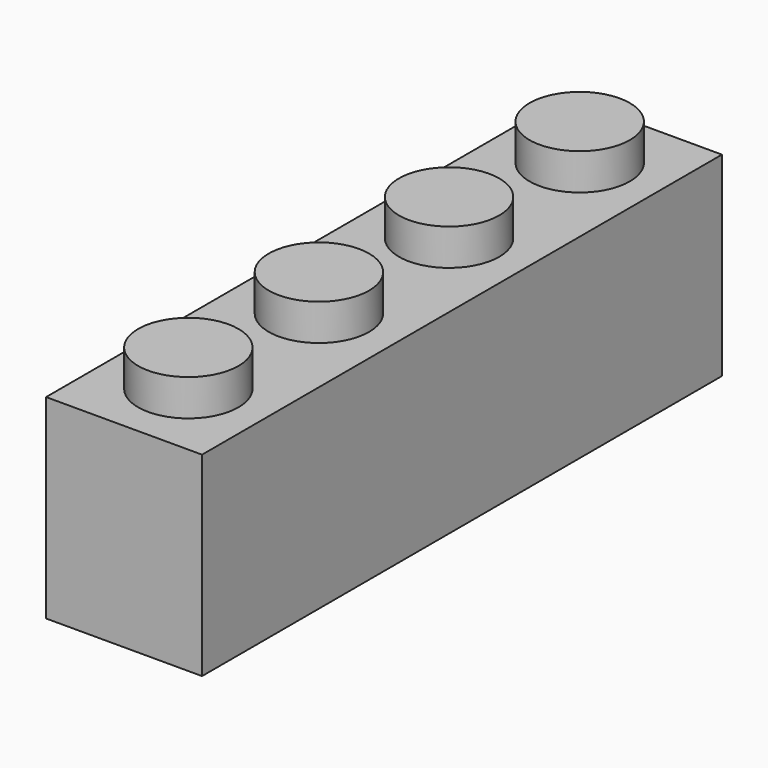
from build123d import *

# Parameters (mm, degrees)
F0_W     = 7.62
F0_H     = 31.75
F1_DEPTH = 4.7625
F2_R     = 2.4511
F3_DEPTH = 1.778
F4_W     = 4.572
F4_H     = 28.702
F4_R     = 1.4986
F5_DEPTH = 8.382


with BuildPart() as f1:
    # F0 (on Top) → F1 (new body, symmetric)
    with BuildSketch(Plane.XY):
        Rectangle(F0_W, F0_H)
    extrude(amount=F1_DEPTH, both=True)

    # F2 (on face) → F3 (join)
    with BuildSketch(Plane.XY.offset(4.7625)):
        with Locations((0, 11.9507)):
            Circle(F2_R)
        with Locations((0, 3.9751)):
            Circle(F2_R)
        with Locations((0, -3.9751)):
            Circle(F2_R)
        with Locations((0, -11.9507)):
            Circle(F2_R)
    extrude(amount=F3_DEPTH)

    # F4 (on face) → F5 (cut)
    with BuildSketch(Plane(origin=(0, 0, -4.7625), x_dir=(1, 0, 0), z_dir=(0, 0, -1))):
        Rectangle(F4_W, F4_H)
        with Locations((0, -8.0772)):
            Circle(F4_R, mode=Mode.SUBTRACT)
        Circle(F4_R, mode=Mode.SUBTRACT)
        with Locations((0, 8.0772)):
            Circle(F4_R, mode=Mode.SUBTRACT)
    extrude(amount=-F5_DEPTH, mode=Mode.SUBTRACT)


solid = f1.part
